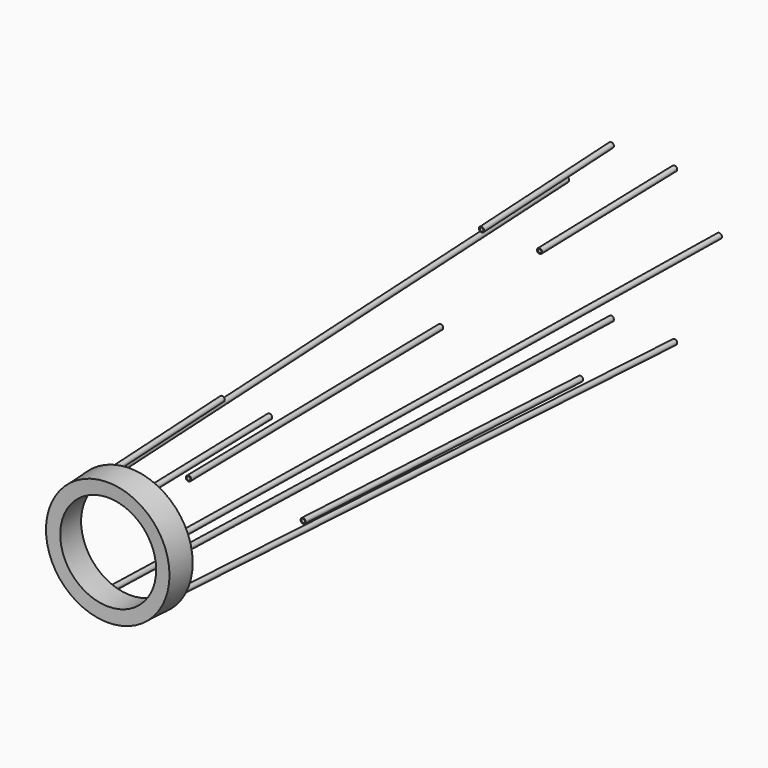
from build123d import *

# Parameters (mm, degrees)
F16_R     = 9.525
F16_R_2   = 6.35
F17_DEPTH = 2402.0824298929
F19_R     = 9.525
F19_R_2   = 6.35
F20_DEPTH = 1201.0412149464
F22_R     = 9.525
F22_R_2   = 6.35
F23_DEPTH = 2402.0824298929
F25_R     = 9.525
F25_R_2   = 6.35
F26_DEPTH = 600.5206074732
F28_R     = 9.525
F28_R_2   = 6.35
F29_DEPTH = 600.5206074732


with BuildPart() as f17:
    # F16 (on line) → F17 (new body, through all)
    with BuildSketch(Plane(origin=(18.9683642385, -1189.6013864818, 45.7936822007), x_dir=(-0.9998730885, -0.0159195288, 0.000612822), z_dir=(-0.0159313197, 0.9991330731, -0.0384616082))):
        with Locations((95.5171729419, -230.7989401674)):
            Circle(F16_R)
        with Locations((95.5171729419, -230.7989401674)):
            Circle(F16_R_2, mode=Mode.SUBTRACT)
    extrude(amount=F17_DEPTH)


with BuildPart() as f20:
    # F19 (on line) → F20 (new body, through all)
    with BuildSketch(Plane(origin=(22.696693888, -589.6013864818, 9.4012784294), x_dir=(-0.9992600786, -0.0384567197, 0.0006131979), z_dir=(-0.0384616082, 0.9991330731, -0.0159313197))):
        with Locations((230.740318401, -95.6586983676)):
            Circle(F19_R)
        with Locations((230.740318401, -95.6586983676)):
            Circle(F19_R_2, mode=Mode.SUBTRACT)
    extrude(amount=F20_DEPTH)


with BuildPart() as f23:
    # F22 (on line) → F23 (new body, through all)
    with BuildSketch(Plane(origin=(45.7936822007, -1189.6013864818, -18.9683642385), x_dir=(-0.9992600786, -0.0384567197, -0.0006131979), z_dir=(-0.0384616082, 0.9991330731, 0.0159313197))):
        with Locations((230.740318401, 95.6586983676)):
            Circle(F22_R)
        with Locations((230.740318401, 95.6586983676)):
            Circle(F22_R_2, mode=Mode.SUBTRACT)
    extrude(amount=F23_DEPTH)


with BuildPart() as f26:
    # F25 (on line) → F26 (new body, through all)
    with BuildSketch(Plane(origin=(18.9683642385, -1189.6013864818, -45.7936822007), x_dir=(0.9998730885, 0.0159195288, 0.000612822), z_dir=(0.0159313197, -0.9991330731, -0.0384616082))):
        with Locations((-95.5171729419, 230.7989401674)):
            Circle(F25_R)
        with Locations((-95.5171729419, 230.7989401674)):
            Circle(F25_R_2, mode=Mode.SUBTRACT)
    extrude(amount=-F26_DEPTH)


with BuildPart() as f29:
    # F28 (on line) → F29 (new body, through all)
    with BuildSketch(Plane(origin=(-9.7328931888, 610.3986135182, 23.4972827376), x_dir=(0.9998730885, 0.0159195288, 0.000612822), z_dir=(0.0159313197, -0.9991330731, -0.0384616082))):
        with Locations((-95.5171729419, 230.7989401674)):
            Circle(F28_R)
        with Locations((-95.5171729419, 230.7989401674)):
            Circle(F28_R_2, mode=Mode.SUBTRACT)
    extrude(amount=-F29_DEPTH)


with BuildPart() as f30_1:
    # F30: instance of F17
    add(f17.part.mirror(Plane.YZ))


with BuildPart() as f30_2:
    # F30: instance of F20
    add(f20.part.mirror(Plane.YZ))


with BuildPart() as f30_3:
    # F30: instance of F23
    add(f23.part.mirror(Plane.YZ))


with BuildPart() as f30_4:
    # F30: instance of F26
    add(f26.part.mirror(Plane.YZ))


with BuildPart() as f30_5:
    # F30: instance of F29
    add(f29.part.mirror(Plane.YZ))


with BuildPart() as f33:
    # F32 (on 3pt) → F33 (revolve)
    with BuildSketch(Plane(origin=(0, 0, 0), x_dir=(0, -1, 0), z_dir=(-0.9238795325, 0, 0.3826834324))):
        Polygon((1223.9158900368, -173.9818126037), (1124.0025827276, -178.144867075), (1126.0841099632, -228.1015207296), (1225.9974172724, -223.9384662584), align=None)
        Polygon((1129.9141200767, -223.9384662584), (1128.1656371988, -181.9748771885), (1220.0858799233, -178.144867075), (1221.8343628012, -220.1084561448), align=None, mode=Mode.SUBTRACT)
    revolve(axis=Axis((0, 0, 0), (0, 1, 0)))

    # F34: cut F17, F20, F23, F26, F30_1, F30_2, F30_3, F30_4
    add(f17.part, mode=Mode.SUBTRACT)
    add(f20.part, mode=Mode.SUBTRACT)
    add(f23.part, mode=Mode.SUBTRACT)
    add(f26.part, mode=Mode.SUBTRACT)
    add(f30_1.part, mode=Mode.SUBTRACT)
    add(f30_2.part, mode=Mode.SUBTRACT)
    add(f30_3.part, mode=Mode.SUBTRACT)
    add(f30_4.part, mode=Mode.SUBTRACT)


solid = Compound([f17.part, f20.part, f23.part, f26.part, f29.part, f30_1.part, f30_2.part, f30_3.part, f30_4.part, f30_5.part, f33.part])
